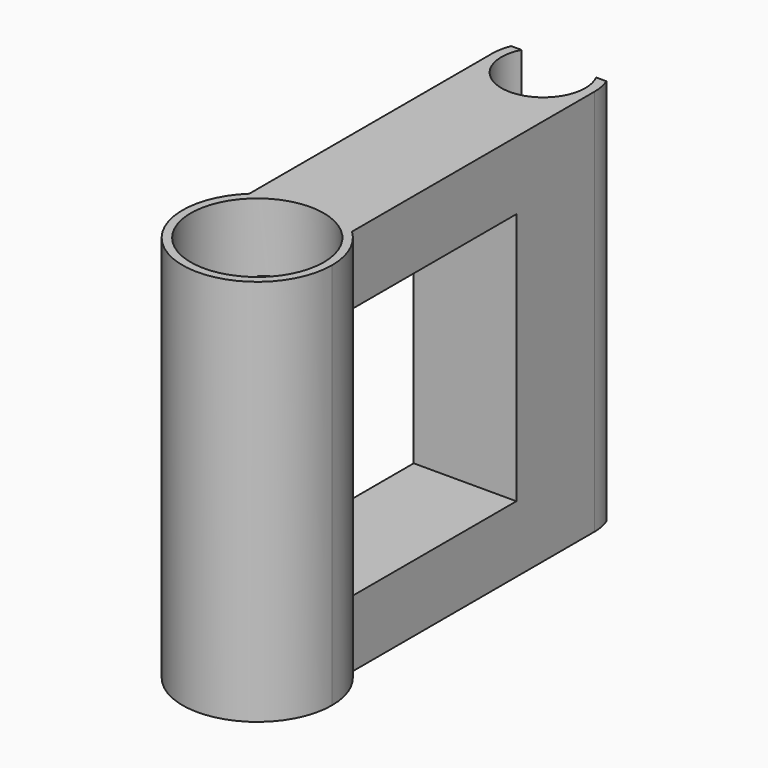
from build123d import *

# Parameters (mm, degrees)
F0_R     = 14.25
F1_DEPTH = 83
F2_W     = 44.470418
F2_H     = 54.147916
F3_DEPTH = 12.5
F4_R     = 14.971262
F4_R_2   = 11
F5_DEPTH = 14


with BuildPart() as f1:
    # F0 (on Top) → F1 (new body)
    with BuildSketch(Plane.XY):
        with BuildLine():
            ThreePointArc((-11, 11.61895), (-6.324555, -14.696938), (16, 0))
            ThreePointArc((16, 0), (14.696938, 6.324555), (11, 11.61895))
            ThreePointArc((11, 11.61895), (0, 16), (-11, 11.61895))
        make_face()
        Circle(F0_R, mode=Mode.SUBTRACT)
        with BuildLine():
            ThreePointArc((-11, 76.61895), (0, 65.61895), (11, 76.61895))
            ThreePointArc((11, 76.61895), (10.797649, 78.719137), (10.198039, 80.742056))
            Line((10.198039, 80.742056), (8, 80.742056))
            ThreePointArc((8, 80.742056), (0, 67.61895), (-8, 80.742056))
            Line((-8, 80.742056), (-10.198039, 80.742056))
            ThreePointArc((-10.198039, 80.742056), (-10.797649, 78.719137), (-11, 76.61895))
        make_face()
        with BuildLine():
            ThreePointArc((-11, 11.61895), (0, 16), (11, 11.61895))
            Line((11, 11.61895), (11, 76.61895))
            ThreePointArc((11, 76.61895), (0, 65.61895), (-11, 76.61895))
            Line((-11, 76.61895), (-11, 11.61895))
        make_face()
    extrude(amount=F1_DEPTH)

    # F2 (on Right) → F3 (cut, symmetric)
    with BuildSketch(Plane.YZ):
        with Locations((33.410417, 41.327498)):
            Rectangle(F2_W, F2_H)
    extrude(amount=F3_DEPTH, both=True, mode=Mode.SUBTRACT)

    # F4 (on Top) → F5 (join)
    with BuildSketch(Plane.XY):
        Circle(F4_R)
        Circle(F4_R_2, mode=Mode.SUBTRACT)
    extrude(amount=F5_DEPTH)


solid = f1.part
